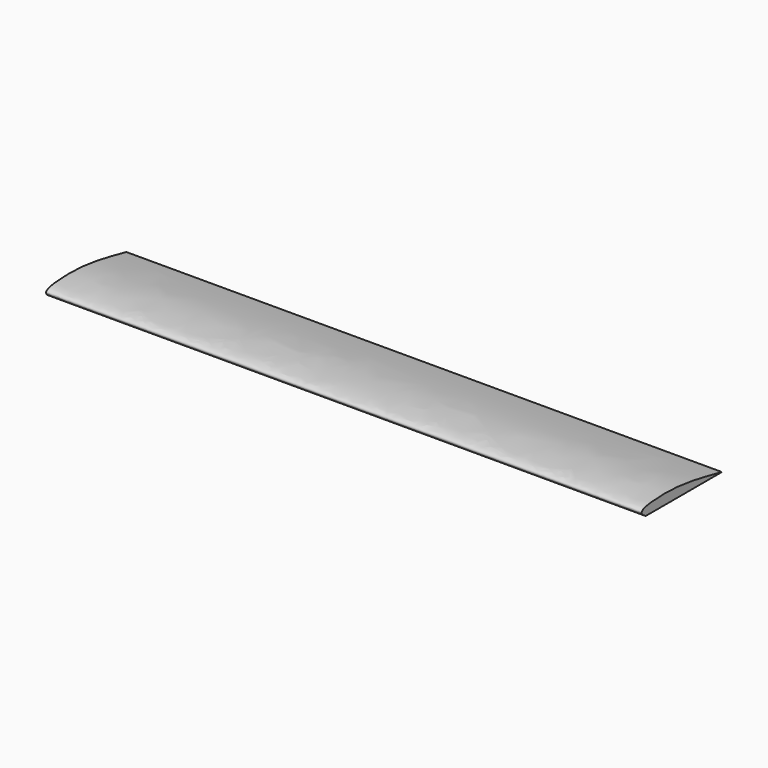
from build123d import *

# Parameters (mm, degrees)
F1_DEPTH = 1524


with BuildPart() as f1:
    # F0 (on Right) → F1 (new body)
    with BuildSketch(Plane.YZ):
        with BuildLine():
            add(Edge.make_bspline(
                [(-43.3534383774, 0), (-76.2773826718, 18.8842080534), (40.6497019981, 34.2314911985), (117.2745021836, 17.5582573105), (200.4865616226, 0)],
                knots=[0, 0, 0, 0, 0.3177786574, 1, 1, 1, 1], degree=3))
            Line((-43.3534383774, 0), (200.4865616226, 0))
        make_face()
    extrude(amount=F1_DEPTH)


solid = f1.part
